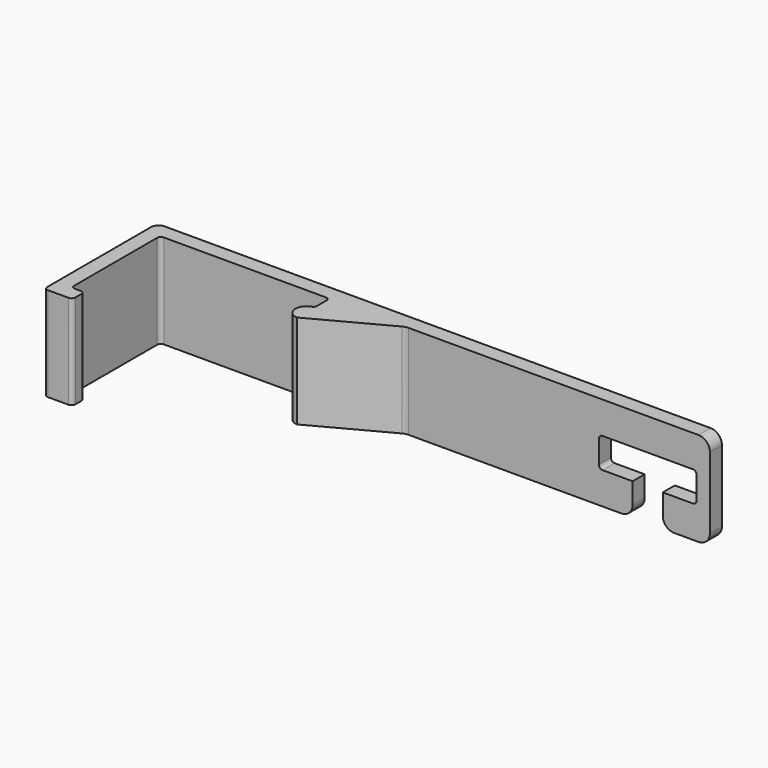
from build123d import *

# Parameters (mm, degrees)
F1_DEPTH = 25
F3_DEPTH = 37.501
F4_R     = 1
F5_R     = 3
F6_R     = 2


with BuildPart() as f1:
    # F0 (on Top) → F1 (new body)
    with BuildSketch(Plane.XY):
        with BuildLine():
            Line((-69.2244253872, -27.8840622671), (-61.7332391261, -27.8840622671))
            Line((-61.7332391261, -27.8840622671), (-61.7332391261, -23.8840622671))
            Line((-61.7332391261, -23.8840622671), (-65.2244253872, -23.8840622671))
            Line((-65.2244253872, -23.8840622671), (-65.2244253872, 5.6159377329))
            Line((-65.2244253872, 5.6159377329), (-20.2244253872, 5.6159377329))
            Line((-20.2244253872, 5.6159377329), (-20.2244253872, 0.6159377329))
            ThreePointArc((-20.2244253872, 0.6159377329), (-22.9369855286, -2.2909603525), (-20.2244253872, -5.1978584379))
            Line((-20.2244253872, -5.1978584379), (0, 5.6159377329))
            Line((0, 5.6159377329), (80.7755746128, 5.6159377329))
            Line((80.7755746128, 5.6159377329), (80.7755746128, 9.6159377329))
            Line((80.7755746128, 9.6159377329), (-69.2244253872, 9.6159377329))
            Line((-69.2244253872, 9.6159377329), (-69.2244253872, -27.8840622671))
        make_face()
    extrude(amount=F1_DEPTH)

    # F2 (on face) → F3 (cut, through all)
    with BuildSketch(Plane(origin=(0, 9.6159377329, 0), x_dir=(-1, 0, 0), z_dir=(0, 1, 0))):
        Polygon((-68.2755746128, 8.5), (-68.2755746128, 0), (-60.2755746128, 0), (-60.2755746128, 8.5), (-51.2755746128, 8.5), (-51.2755746128, 16.5), (-77.2755746128, 16.5), (-77.2755746128, 8.5), align=None)
    extrude(amount=-F3_DEPTH, mode=Mode.SUBTRACT)

    # F4
    f4_edges = [f1.edges().sort_by_distance(p)[0] for p in [
        (77.275575, 7.615938, 16.5),
        (77.275575, 7.615938, 8.5),
        (51.275575, 7.615938, 16.5),
        (51.275575, 7.615938, 8.5),
        (-65.224425, 5.615938, 12.5),
        (-20.224425, 5.615938, 12.5),
        (-20.224425, 0.615938, 12.5),
        (-65.224425, -23.884062, 12.5),
        (-61.733239, -23.884062, 12.5),
        (-61.733239, -27.884062, 12.5),
        (-69.224425, -27.884062, 12.5),
    ]]
    fillet(f4_edges, radius=F4_R)

    # F5
    f5_edges = [f1.edges().sort_by_distance(p)[0] for p in [
        (80.775575, 7.615938, 0),
        (80.775575, 7.615938, 25),
        (68.275575, 7.615938, 0),
        (60.275575, 7.615938, 0),
        (0, 5.615938, 12.5),
    ]]
    fillet(f5_edges, radius=F5_R)

    # F6
    f6_edges = [f1.edges().sort_by_distance(p)[0] for p in [
        (-69.224425, 9.615938, 12.5),
    ]]
    fillet(f6_edges, radius=F6_R)


solid = f1.part
